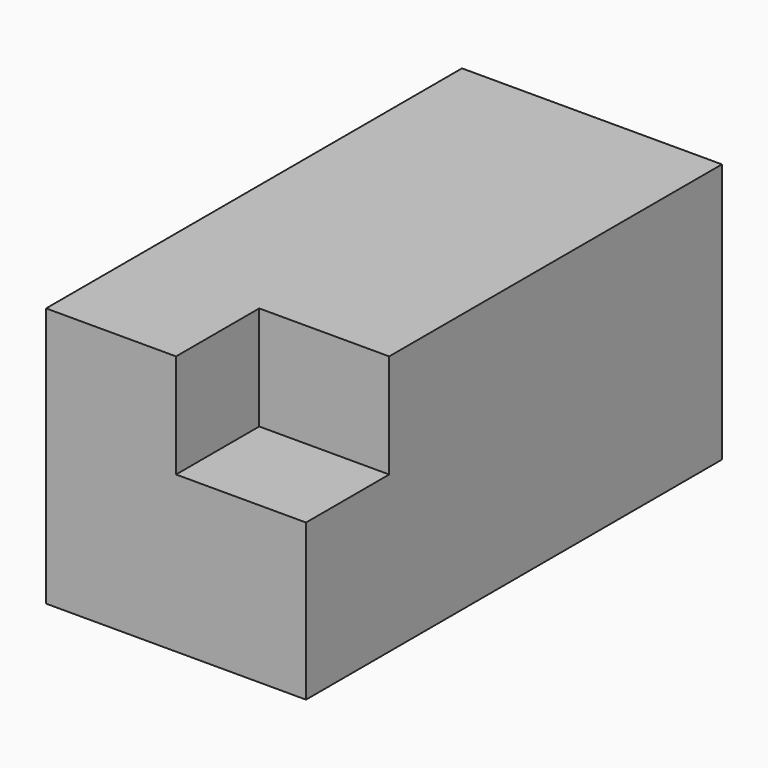
from build123d import *

# Parameters (mm, degrees)
F0_W     = 50
F0_H     = 50
F1_DEPTH = 50
F2_W     = 20
F2_H     = 20
F3_DEPTH = 25


with BuildPart() as f1:
    # F0 (on Front) → F1 (new body, symmetric)
    with BuildSketch(Plane.XZ):
        Rectangle(F0_W, F0_H)
    extrude(amount=F1_DEPTH, both=True)

    # F2 (on face) → F3 (cut)
    with BuildSketch(Plane.YZ.offset(25)):
        with Locations((-40, 15)):
            Rectangle(F2_W, F2_H)
    extrude(amount=-F3_DEPTH, mode=Mode.SUBTRACT)


solid = f1.part
